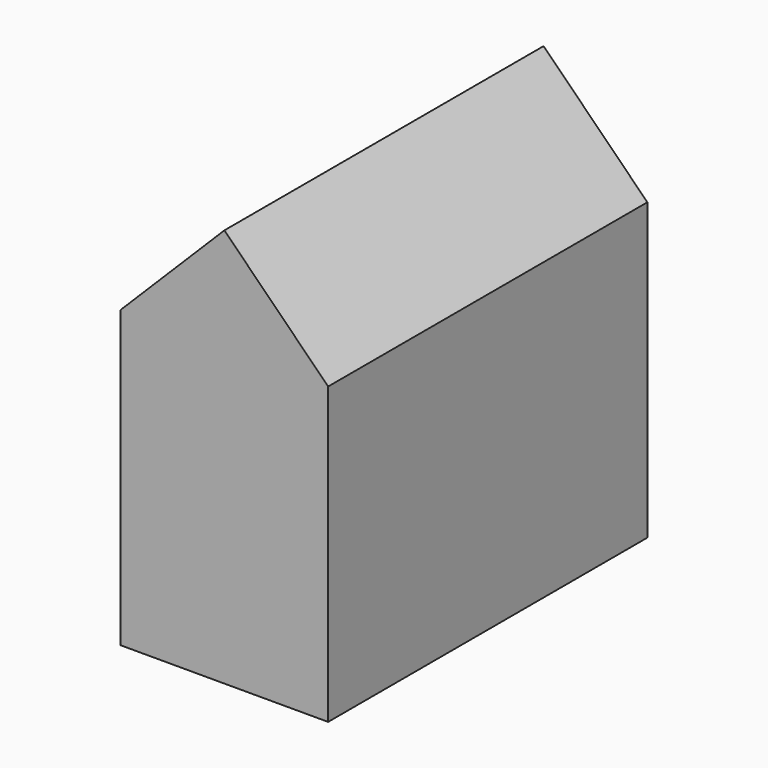
from build123d import *

# Parameters (mm, degrees)
F0_W     = 13
F0_H     = 18.5
F1_DEPTH = 12.5


with BuildPart() as f1:
    # F0 (on Front) → F1 (new body, symmetric)
    with BuildSketch(Plane.XZ):
        with Locations((0, 9.25)):
            Rectangle(F0_W, F0_H)
        Polygon((0, 25), (-6.5, 18.5), (6.5, 18.5), align=None)
    extrude(amount=F1_DEPTH, both=True)


solid = f1.part
